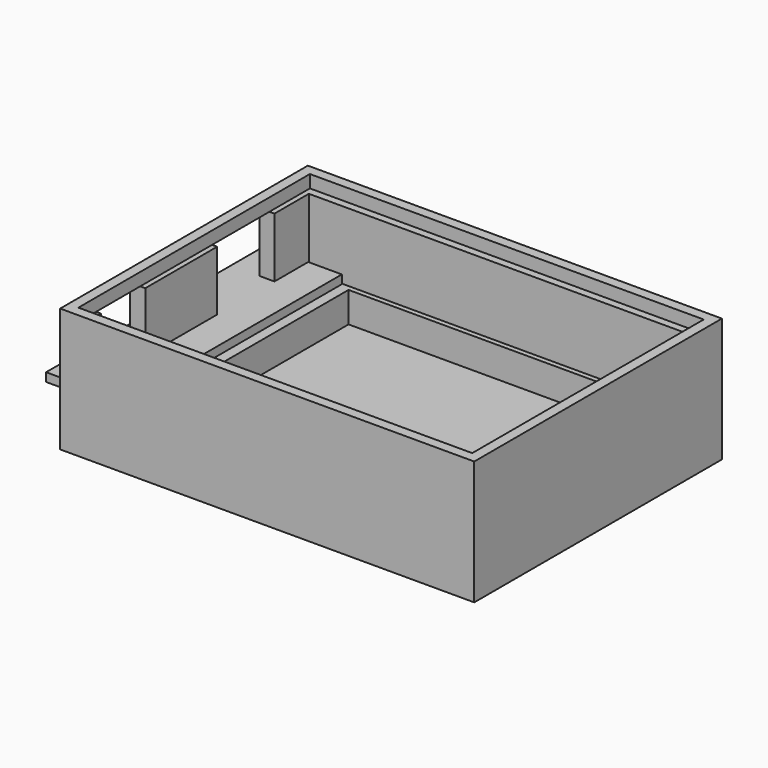
from build123d import *

# Parameters (mm, degrees)
F0_W      = 81.8
F0_H      = 61.16
F1_DEPTH  = 24.5
F2_W      = 77.8
F2_H      = 57.16
F3_DEPTH  = 2.5
F4_W      = 75.8
F4_H      = 54.16
F5_DEPTH  = 13.5
F6_W      = 66.16
F6_H      = 52.16
F7_DEPTH  = 6
F8_W      = 15.217356
F8_H      = 54.009464
F9_DEPTH  = 1.7
F10_W     = 14.16
F10_H     = 11.8
F10_W_2   = 10.9
F11_DEPTH = 4


with BuildPart() as f1:
    # F0 (on Top) → F1 (new body)
    with BuildSketch(Plane.XY):
        Rectangle(F0_W, F0_H)
    extrude(amount=F1_DEPTH)

    # F2 (on face) → F3 (cut)
    with BuildSketch(Plane.XY.offset(24.5)):
        Rectangle(F2_W, F2_H)
    extrude(amount=-F3_DEPTH, mode=Mode.SUBTRACT)

    # F4 (on face) → F5 (cut)
    with BuildSketch(Plane.XY.offset(22)):
        Rectangle(F4_W, F4_H)
    extrude(amount=-F5_DEPTH, mode=Mode.SUBTRACT)

    # F6 (on face) → F7 (cut)
    with BuildSketch(Plane.XY.offset(8.5)):
        with Locations((3.82, 0)):
            Rectangle(F6_W, F6_H)
    extrude(amount=-F7_DEPTH, mode=Mode.SUBTRACT)

    # F8 (on face) → F9 (join)
    with BuildSketch(Plane.XY.offset(8.5)):
        with Locations((-38.868678, -0.085647)):
            Rectangle(F8_W, F8_H)
    extrude(amount=F9_DEPTH)

    # F10 (on face) → F11 (cut)
    with BuildSketch(Plane(origin=(-40.9, 0, 0), x_dir=(0, -1, 0), z_dir=(-1, 0, 0))):
        with Locations((-11.5, 16.1)):
            Rectangle(F10_W, F10_H)
        with Locations((18.77, 16.1)):
            Rectangle(F10_W_2, F10_H)
    extrude(amount=-F11_DEPTH, mode=Mode.SUBTRACT)


solid = f1.part
